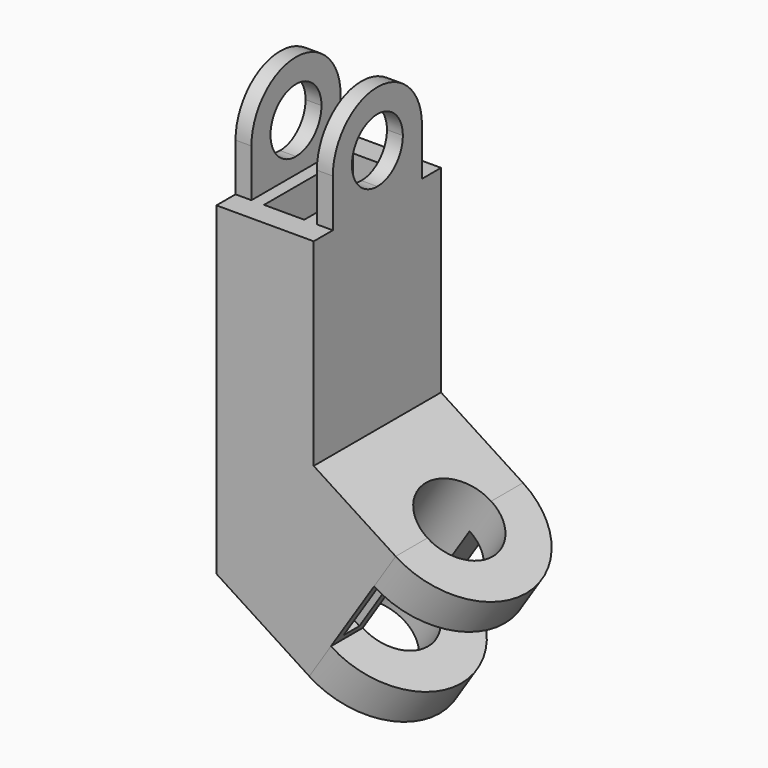
from build123d import *

# Parameters (mm, degrees)
F1_DEPTH  = 25.4
F3_DEPTH  = 2.54
F5_DEPTH  = 2.54
F8_DEPTH  = 6.35
F9_DEPTH  = 6.35
F10_D     = 12.7
F10_DEPTH = 50.8
F10_TIP   = 3.8154649308
F13_DEPTH = 50.8
F11_W     = 3.138929677
F11_H     = 9.9252452589
F14_DEPTH = 20.32


with BuildPart() as f1:
    # F0 (on Front) → F1 (new body)
    with BuildSketch(Plane.XZ):
        Polygon((9.3470606522, -38.1387286557), (9.8942405438, -37.2919790531), (-3.1854136077, -28.8397474625), (-3.1854136077, 2.7160348484), (-18.7130940077, 2.7160348484), (-18.7130940077, -49.0474707287), (-3.8916078894, -58.6252953208), (-3.0602029376, -57.3387132966), align=None)
    extrude(amount=F1_DEPTH)

    # F2 (on face) → F3 (join)
    with BuildSketch(Plane.YZ.offset(-3.1854136077)):
        with BuildLine():
            Line((-21.59, 2.7160348484), (-12.7, 2.7160348484))
            Line((-12.7, 2.7160348484), (-12.7, 5.2560348484))
            ThreePointArc((-12.7, 5.2560348484), (-16.2921024484, 6.7439323999), (-17.78, 10.3360348484))
            Line((-17.78, 10.3360348484), (-21.59, 10.3360348484))
            Line((-21.59, 10.3360348484), (-21.59, 2.7160348484))
        make_face()
        with BuildLine():
            Line((-12.7, 5.2560348484), (-12.7, 2.7160348484))
            Line((-12.7, 2.7160348484), (-3.81, 2.7160348484))
            Line((-3.81, 2.7160348484), (-3.81, 10.3360348484))
            Line((-3.81, 10.3360348484), (-7.62, 10.3360348484))
            ThreePointArc((-7.62, 10.3360348484), (-9.1078975516, 6.7439323999), (-12.7, 5.2560348484))
        make_face()
        with BuildLine():
            Line((-21.59, 10.3360348484), (-17.78, 10.3360348484))
            ThreePointArc((-17.78, 10.3360348484), (-12.7, 15.4160348484), (-7.62, 10.3360348484))
            Line((-7.62, 10.3360348484), (-3.81, 10.3360348484))
            ThreePointArc((-3.81, 10.3360348484), (-12.7, 19.2260348484), (-21.59, 10.3360348484))
        make_face()
    extrude(amount=-F3_DEPTH)

    # F4 (on face) → F5 (join)
    with BuildSketch(Plane(origin=(-18.7130940077, 0, 0), x_dir=(0, -1, 0), z_dir=(-1, 0, 0))):
        with BuildLine():
            Line((3.81, 2.7160348484), (12.7, 2.7160348484))
            Line((12.7, 2.7160348484), (12.7, 5.2560348484))
            ThreePointArc((12.7, 5.2560348484), (9.1078975516, 6.7439323999), (7.62, 10.3360348484))
            Line((7.62, 10.3360348484), (3.81, 10.3360348484))
            Line((3.81, 10.3360348484), (3.81, 2.7160348484))
        make_face()
        with BuildLine():
            Line((12.7, 5.2560348484), (12.7, 2.7160348484))
            Line((12.7, 2.7160348484), (21.59, 2.7160348484))
            Line((21.59, 2.7160348484), (21.59, 10.3360348484))
            Line((21.59, 10.3360348484), (17.78, 10.3360348484))
            ThreePointArc((17.78, 10.3360348484), (16.2921024484, 6.7439323999), (12.7, 5.2560348484))
        make_face()
        with BuildLine():
            ThreePointArc((7.62, 10.3360348484), (12.7, 15.4160348484), (17.78, 10.3360348484))
            Line((17.78, 10.3360348484), (21.59, 10.3360348484))
            ThreePointArc((21.59, 10.3360348484), (12.7, 19.2260348484), (3.81, 10.3360348484))
            Line((3.81, 10.3360348484), (7.62, 10.3360348484))
        make_face()
    extrude(amount=-F5_DEPTH)

    # F7 (on face) → F8 (join)
    with BuildSketch(Plane(origin=(-14.0850250818, 0, -21.7962859642), x_dir=(0.8398943412, 0, -0.5427499383), z_dir=(0.5427499383, 0, 0.8398943412))):
        with BuildLine():
            Line((28.5503359742, -17.78), (28.5503359742, -25.4))
            ThreePointArc((28.5503359742, -25.4), (41.2503359742, -12.7), (28.5503359742, 0))
            Line((28.5503359742, 0), (28.5503359742, -7.62))
            ThreePointArc((28.5503359742, -7.62), (32.1424384227, -9.1078975516), (33.6303359742, -12.7))
            ThreePointArc((33.6303359742, -12.7), (32.1424384227, -16.2921024484), (28.5503359742, -17.78))
        make_face()
    extrude(amount=-F8_DEPTH)

    # F6 (on face) → F9 (join)
    with BuildSketch(Plane(origin=(-27.8708735149, 0, -43.129602232), x_dir=(0.8398943412, 0, -0.5427499383), z_dir=(-0.5427499383, 0, -0.8398943412))):
        with BuildLine():
            Line((28.5503359742, 7.62), (28.5503359742, 0))
            ThreePointArc((28.5503359742, 0), (41.2503359742, 12.7), (28.5503359742, 25.4))
            Line((28.5503359742, 25.4), (28.5503359742, 17.78))
            ThreePointArc((28.5503359742, 17.78), (32.1424384227, 16.2921024484), (33.6303359742, 12.7))
            ThreePointArc((33.6303359742, 12.7), (32.1424384227, 9.1078975516), (28.5503359742, 7.62))
        make_face()
    extrude(amount=-F9_DEPTH)

    # F10
    with Locations(Plane(origin=(-27.8708735149, 0, -43.129602232), x_dir=(0.8398943412, 0, -0.5427499383), z_dir=(-0.5427499383, 0, -0.8398943412))):
        with Locations((28.5503359742, 12.7)):
            Hole(F10_D / 2, depth=F10_DEPTH)
            with Locations((0, 0, -(F10_DEPTH + F10_TIP / 2))):  # 118° drill point
                Cone(0, F10_D / 2, F10_TIP, mode=Mode.SUBTRACT)

    # F12 (on face) → F13 (cut)
    with BuildSketch(Plane.XY.offset(2.7160348484)):
        Polygon((-7.7378149144, -17.953234597), (-10.9492538077, -12.7), (-14.1606927009, -17.953234597), (-14.1606927009, -21.59), (-7.7378149144, -21.59), align=None)
        Polygon((-10.9492538077, -12.7), (-14.1606927009, -7.446765403), (-14.1606927009, -17.953234597), align=None)
        Polygon((-7.7378149144, -7.446765403), (-10.9492538077, -12.7), (-7.7378149144, -17.953234597), align=None)
        Polygon((-14.1606927009, -3.81), (-14.1606927009, -7.446765403), (-10.9492538077, -12.7), (-7.7378149144, -7.446765403), (-7.7378149144, -3.81), align=None)
    extrude(amount=-F13_DEPTH, mode=Mode.SUBTRACT)

    # F11 (on face) → F14 (cut)
    with BuildSketch(Plane(origin=(23.9792656255, 0, -15.4956930888), x_dir=(0, 1, 0), z_dir=(0.8398943412, 0, -0.5427499383))):
        with Locations((-22.225, -38.6512237359)):
            Rectangle(F11_W, F11_H)
    extrude(amount=-F14_DEPTH, mode=Mode.SUBTRACT)


solid = f1.part
